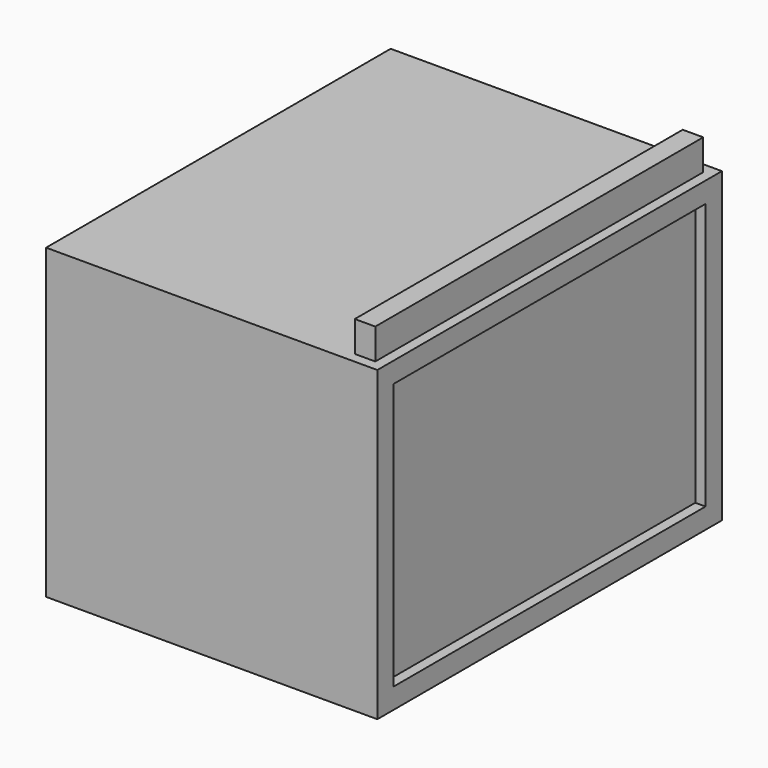
from build123d import *

# Parameters (mm, degrees)
F0_W          = 82.1032822132
F0_H          = 106.7575290799
F1_DEPTH      = 76.2
F2_T          = -5.08
F3_W          = 5.08
F3_H          = 101.6
F4_DEPTH      = 71.12
F4_DEPTH_BACK = 7.62


with BuildPart() as f1:
    # F0 (on Top) → F1 (new body)
    with BuildSketch(Plane.XY):
        with Locations((7.0939101279, 4.3028630316)):
            Rectangle(F0_W, F0_H)
    extrude(amount=F1_DEPTH)

    # F2
    f2_openings = [f1.faces().sort_by_distance(p)[0] for p in [
        (48.145551, 4.302863, 38.1),
    ]]
    offset(amount=F2_T, openings=f2_openings)


with BuildPart() as f4:
    # F3 (on face) → F4 (new body, two sides)
    with BuildSketch(Plane.XY.offset(76.2)) as f4_sk:
        with Locations((43.0655512345, 4.2640984917)):
            Rectangle(F3_W, F3_H)
    extrude(amount=-F4_DEPTH)
    extrude(f4_sk.sketch, amount=F4_DEPTH_BACK)


with BuildPart() as f1_1:
    add(f1.part)

    # F5: cut F4
    add(f4.part, mode=Mode.SUBTRACT)


solid = Compound([f4.part, f1_1.part])
